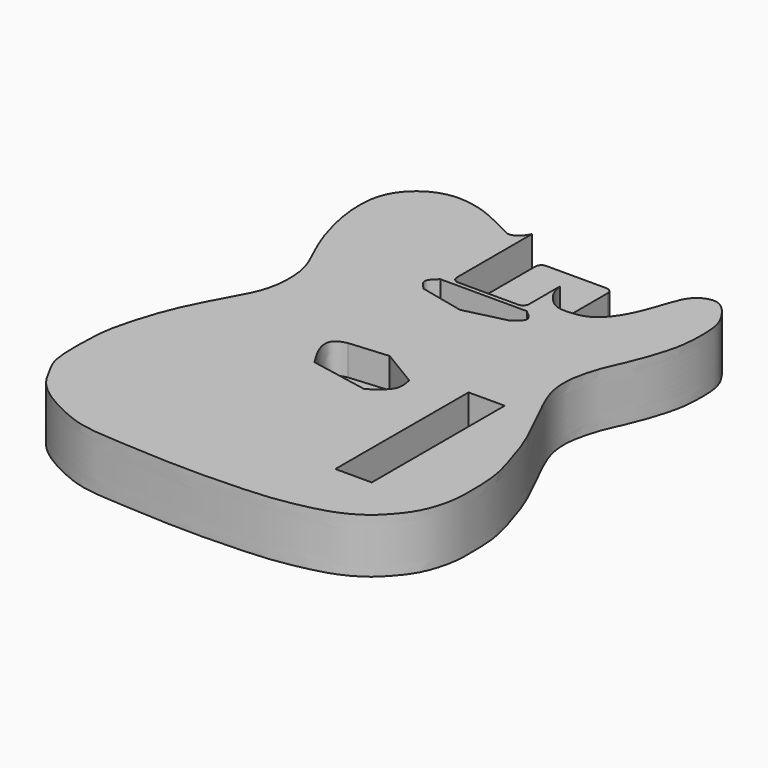
from build123d import *

# Parameters (mm, degrees)
F1_DEPTH = 20
F2_DEPTH = 45
F4_DEPTH = 25


with BuildPart() as f1:
    # F0 (on Top) → F1 (new body)
    with BuildSketch(Plane.XY):
        with BuildLine():
            Line((-29.8705920577, 196.5147366036), (-29.8705920577, 193.129316758))
            Line((-29.8705920577, 193.129316758), (-29.8705920577, 115.4766361822))
            ThreePointArc((-29.8705920577, 115.4766361822), (-28.4061259636, 111.9411022762), (-24.8705920577, 110.4766361822))
            Line((-24.8705920577, 110.4766361822), (24.8705920577, 110.4766361822))
            ThreePointArc((24.8705920577, 110.4766361822), (28.4061259636, 111.9411022762), (29.8705920577, 115.4766361822))
            Line((29.8705920577, 115.4766361822), (29.8705920577, 147.0922082663))
            Line((29.8705920577, 147.0922082663), (29.8705920577, 196.5147366036))
            ThreePointArc((29.8705920577, 196.5147366036), (28.4061259636, 200.0502705095), (24.8705920577, 201.5147366036))
            Line((24.8705920577, 201.5147366036), (-24.8705920577, 201.5147366036))
            ThreePointArc((-24.8705920577, 201.5147366036), (-28.4061259636, 200.0502705095), (-29.8705920577, 196.5147366036))
        make_face()
    extrude(amount=F1_DEPTH)

    # F0 (on Top) → F2 (join)
    with BuildSketch(Plane.XY):
        with BuildLine():
            Line((-29.8705920577, 115.4766361822), (-29.8705920577, 193.129316758))
            add(Edge.make_bspline(
                [(29.8705920577, 147.0922082663), (30.531746817, 143.7181304753), (31.8586736061, 136.6773311817), (40.2269272279, 126.9174405127), (48.1784953176, 122.1037506614), (61.217041667, 122.7842926774), (73.5099845677, 125.5978068548), (85.770149201, 138.6468257697), (94.4561160164, 157.8199323592), (99.50088251, 174.4069712951), (105.1920876932, 188.6358459223), (117.2929606911, 194.8002305369), (127.7643640324, 192.6250625644), (138.5276674967, 178.8810697102), (144.6021258458, 165.0050833741), (143.7977140719, 135.2829485227), (140.0207234027, 119.6192009448), (132.8834127628, 97.3269651359), (123.9932732877, 79.3187425611), (118.7943441681, 64.1794890909), (115.1730607365, 46.2737350246), (117.2151543956, 27.1045241169), (127.0063809782, 5.9409660222), (137.813201916, -15.2987899682), (147.8782415686, -36.5226361096), (154.9127946188, -58.2197018956), (162.5922151777, -82.6759744313), (163.5931851707, -106.3594173033), (163.6774586209, -128.2859751636), (157.6193280426, -149.59244875), (149.1621345275, -163.1215955632), (137.7339873774, -175.4323865264), (129.7226446792, -181.7552160701), (117.6113994021, -188.4382285231), (105.8030502844, -192.5141273046), (92.1228689525, -195.8918705472), (73.740532799, -199.2952979313), (54.6689795027, -201.2565651947), (-0.716842433, -203.3680758556), (-50.0939143492, -200.1882650663), (-75.7814465607, -199.0207361104), (-95.0448103081, -195.6434707926), (-112.7864287672, -187.9162361681), (-127.7401905888, -180.1477286706), (-144.9897376926, -167.2812093663), (-153.9473446352, -149.6852727753), (-162.1350926074, -135.5489242086), (-161.4675605966, -100.3932325917), (-160.7301742904, -84.7795625093), (-154.8455536734, -59.878463956), (-146.5000100066, -35.7674977232), (-137.3498089415, -15.9062538443), (-123.5769695282, 8.8152608172), (-113.3718969355, 28.9966419835), (-112.4936647934, 59.8664479641), (-120.9053880033, 79.4338919494), (-131.4095164403, 100.5556584415), (-138.2997411134, 124.9333615231), (-141.753739531, 141.3385976824), (-142.8768071658, 166.5901083542), (-135.1407667979, 185.274532886), (-119.3649324847, 199.0549410465), (-99.6410499755, 204.378866326), (-77.4316841701, 200.2120864691), (-61.7067620507, 193.294527777), (-46.0292777976, 185.1083817987), (-41.0353311905, 182.600433363), (-33.3694331011, 186.2554969652), (-31.031680794, 190.8157165397), (-29.8705920577, 193.129316758)],
                knots=[0, 0, 0, 0, 0.0110806105, 0.0230980355, 0.0333646277, 0.0454207682, 0.0574318559, 0.0715827681, 0.0873563564, 0.1017386717, 0.1148774038, 0.126810725, 0.1374445275, 0.1512290679, 0.1648226534, 0.1830792606, 0.1972051763, 0.2135473644, 0.2289718846, 0.2425897833, 0.2570282412, 0.2719262639, 0.2883837804, 0.3051893694, 0.3216977241, 0.3380646765, 0.3553413161, 0.3719721867, 0.3880444311, 0.4039292597, 0.4177119987, 0.4314893448, 0.442504319, 0.4550344105, 0.4671448369, 0.4800026319, 0.4944561938, 0.5094286799, 0.5349264816, 0.5594955855, 0.5765657803, 0.5914704463, 0.6063537292, 0.6204818706, 0.6362104594, 0.6511037333, 0.6650508165, 0.6848935983, 0.6988953433, 0.7158700449, 0.7332465918, 0.7493414776, 0.7673419482, 0.7837994644, 0.8023325213, 0.8181073084, 0.8347535197, 0.8518101247, 0.8660057065, 0.8829080426, 0.8981620412, 0.9134160403, 0.9286943065, 0.9446907576, 0.9593059065, 0.9734301489, 0.9811921941, 0.9904821881, 1, 1, 1, 1], degree=3))
            Line((29.8705920577, 147.0922082663), (29.8705920577, 115.4766361822))
            ThreePointArc((29.8705920577, 115.4766361822), (28.4061259636, 111.9411022762), (24.8705920577, 110.4766361822))
            Line((24.8705920577, 110.4766361822), (-24.8705920577, 110.4766361822))
            ThreePointArc((-24.8705920577, 110.4766361822), (-28.4061259636, 111.9411022762), (-29.8705920577, 115.4766361822))
        make_face()
    extrude(amount=F2_DEPTH)

    # F3 (on face) → F4 (cut)
    with BuildSketch(Plane.XY.offset(45)):
        with BuildLine():
            Line((36.0672809184, -16.1074381322), (4.909443669, 2.6861776132))
            Line((4.909443669, 2.6861776132), (-27.5672413409, 0))
            add(Edge.make_bspline(
                [(-27.5672413409, -34.4064831734), (-32.1047665652, -27.1583537254), (-39.6090991937, -15.1711202397), (-37.7717245323, -2.8258060452), (-30.95562002, -0.9383033687), (-27.5672413409, 0)],
                knots=[0, 0, 0, 0, 0.4347502915, 0.7190066471, 1, 1, 1, 1], degree=3))
            Line((-27.5672413409, -34.4064831734), (20.9005028009, -43.6384342611))
            add(Edge.make_bspline(
                [(36.0672809184, -16.1074381322), (36.9945415741, -20.8467189716), (39.0578216088, -31.3922581084), (27.3478724807, -39.2900155516), (20.9005028009, -43.6384342611)],
                knots=[0, 0, 0, 0, 0.4494109574, 1, 1, 1, 1], degree=3))
        make_face()
        with BuildLine():
            Line((34.7471944988, 106.8878695369), (-36.682985723, 106.8878695369))
            add(Edge.make_bspline(
                [(-36.682985723, 106.8878695369), (-39.720466228, 104.0969797334), (-45.8297879976, 98.4836288642), (-39.7433305357, 92.6762541129), (-36.682985723, 89.7562354803)],
                knots=[0, 0, 0, 0, 0.4971878417, 1, 1, 1, 1], degree=3))
            Line((-36.682985723, 89.7562354803), (0, 81.3356041908))
            Line((0, 81.3356041908), (34.7471944988, 89.7562354803))
            add(Edge.make_bspline(
                [(34.7471944988, 106.8878695369), (38.3887719333, 103.9668755553), (45.6361815496, 98.1535596908), (38.3649025224, 92.5461246621), (34.7471944988, 89.7562354803)],
                knots=[0, 0, 0, 0, 0.502466071, 1, 1, 1, 1], degree=3))
        make_face()
        Polygon((106.1839163303, -5.2258926444), (76.3461515307, -5.2258926444), (76.1153548956, -142.4591988325), (106.1839163303, -142.4591988325), (106.1839163303, -141.4718478918), align=None)
    extrude(amount=-F4_DEPTH, mode=Mode.SUBTRACT)


solid = f1.part
